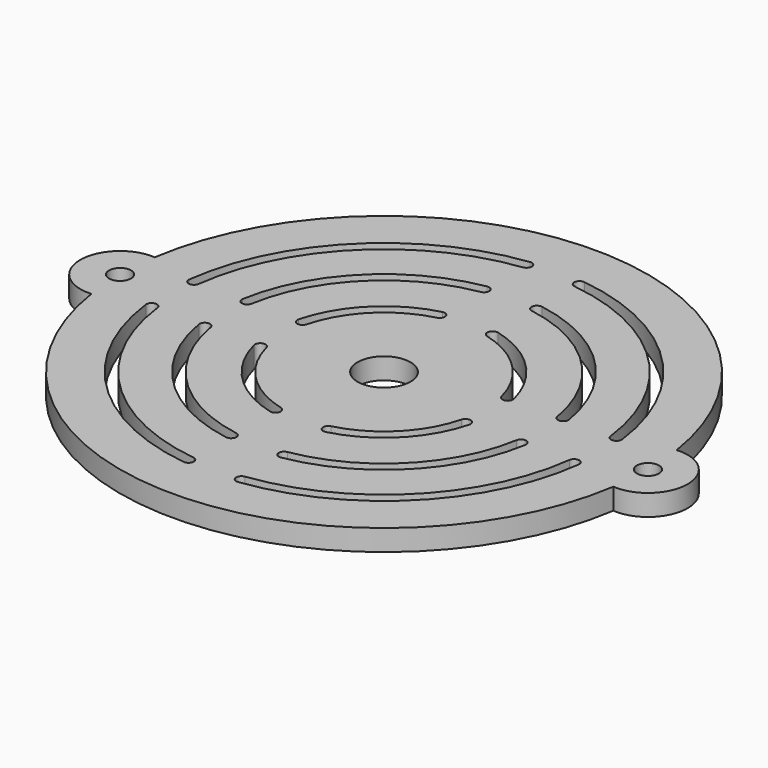
from build123d import *

# Parameters (mm, degrees)
F0_R     = 2.08
F0_R_2   = 5
F1_DEPTH = 4


with BuildPart() as f1:
    # F0 (on Top) → F1 (new body)
    with BuildSketch(Plane.XY):
        with BuildLine():
            ThreePointArc((49.265581, 7.478732), (0, 49.83), (-49.265581, 7.478732))
            ThreePointArc((-49.265581, 7.478732), (-57.33, 0), (-49.265581, -7.478732))
            ThreePointArc((-49.265581, -7.478732), (0, -49.83), (49.265581, -7.478732))
            ThreePointArc((49.265581, -7.478732), (57.33, 0), (49.265581, 7.478732))
        make_face()
        with BuildLine():
            ThreePointArc((-5.124423, -40.865491), (-29.122569, -29.122569), (-40.865491, -5.124423))
            ThreePointArc((-40.865491, -5.124423), (-39.997684, -4.007771), (-38.881032, -4.875577))
            ThreePointArc((-38.881032, -4.875577), (-27.708355, -27.708355), (-4.875577, -38.881032))
            ThreePointArc((-4.875577, -38.881032), (-4.007771, -39.997684), (-5.124423, -40.865491))
        make_face(mode=Mode.SUBTRACT)
        with BuildLine():
            ThreePointArc((-5.165289, -30.82016), (-22.097087, -22.097087), (-30.82016, -5.165289))
            ThreePointArc((-30.82016, -5.165289), (-29.999205, -4.013755), (-28.84767, -4.834711))
            ThreePointArc((-28.84767, -4.834711), (-20.682873, -20.682873), (-4.834711, -28.84767))
            ThreePointArc((-4.834711, -28.84767), (-4.013755, -29.999205), (-5.165289, -30.82016))
        make_face(mode=Mode.SUBTRACT)
        with BuildLine():
            ThreePointArc((-20.333163, -5.25), (-19.614917, -4.031754), (-18.396671, -4.75))
            ThreePointArc((-18.396671, -4.75), (-13.435029, -13.435029), (-4.75, -18.396671))
            ThreePointArc((-4.75, -18.396671), (-4.031754, -19.614917), (-5.25, -20.333163))
            ThreePointArc((-5.25, -20.333163), (-14.849242, -14.849242), (-20.333163, -5.25))
        make_face(mode=Mode.SUBTRACT)
        with BuildLine():
            ThreePointArc((40.865491, -5.124423), (29.122569, -29.122569), (5.124423, -40.865491))
            ThreePointArc((5.124423, -40.865491), (4.007771, -39.997684), (4.875577, -38.881032))
            ThreePointArc((4.875577, -38.881032), (27.708355, -27.708355), (38.881032, -4.875577))
            ThreePointArc((38.881032, -4.875577), (39.997684, -4.007771), (40.865491, -5.124423))
        make_face(mode=Mode.SUBTRACT)
        with BuildLine():
            ThreePointArc((30.82016, -5.165289), (22.097087, -22.097087), (5.165289, -30.82016))
            ThreePointArc((5.165289, -30.82016), (4.013755, -29.999205), (4.834711, -28.84767))
            ThreePointArc((4.834711, -28.84767), (20.682873, -20.682873), (28.84767, -4.834711))
            ThreePointArc((28.84767, -4.834711), (29.999205, -4.013755), (30.82016, -5.165289))
        make_face(mode=Mode.SUBTRACT)
        with BuildLine():
            ThreePointArc((5.25, -20.333163), (4.031754, -19.614917), (4.75, -18.396671))
            ThreePointArc((4.75, -18.396671), (13.435029, -13.435029), (18.396671, -4.75))
            ThreePointArc((18.396671, -4.75), (19.614917, -4.031754), (20.333163, -5.25))
            ThreePointArc((20.333163, -5.25), (14.849242, -14.849242), (5.25, -20.333163))
        make_face(mode=Mode.SUBTRACT)
        with Locations((-49.83, 0)):
            Circle(F0_R, mode=Mode.SUBTRACT)
        Circle(F0_R_2, mode=Mode.SUBTRACT)
        with BuildLine():
            ThreePointArc((-20.333163, 5.25), (-14.849242, 14.849242), (-5.25, 20.333163))
            ThreePointArc((-5.25, 20.333163), (-4.031754, 19.614917), (-4.75, 18.396671))
            ThreePointArc((-4.75, 18.396671), (-13.435029, 13.435029), (-18.396671, 4.75))
            ThreePointArc((-18.396671, 4.75), (-19.614917, 4.031754), (-20.333163, 5.25))
        make_face(mode=Mode.SUBTRACT)
        with BuildLine():
            ThreePointArc((-30.82016, 5.165289), (-22.097087, 22.097087), (-5.165289, 30.82016))
            ThreePointArc((-5.165289, 30.82016), (-4.013755, 29.999205), (-4.834711, 28.84767))
            ThreePointArc((-4.834711, 28.84767), (-20.682873, 20.682873), (-28.84767, 4.834711))
            ThreePointArc((-28.84767, 4.834711), (-29.999205, 4.013755), (-30.82016, 5.165289))
        make_face(mode=Mode.SUBTRACT)
        with BuildLine():
            ThreePointArc((-40.865491, 5.124423), (-29.122569, 29.122569), (-5.124423, 40.865491))
            ThreePointArc((-5.124423, 40.865491), (-4.007771, 39.997684), (-4.875577, 38.881032))
            ThreePointArc((-4.875577, 38.881032), (-27.708355, 27.708355), (-38.881032, 4.875577))
            ThreePointArc((-38.881032, 4.875577), (-39.997684, 4.007771), (-40.865491, 5.124423))
        make_face(mode=Mode.SUBTRACT)
        with BuildLine():
            ThreePointArc((20.333163, 5.25), (19.614917, 4.031754), (18.396671, 4.75))
            ThreePointArc((18.396671, 4.75), (13.435029, 13.435029), (4.75, 18.396671))
            ThreePointArc((4.75, 18.396671), (4.031754, 19.614917), (5.25, 20.333163))
            ThreePointArc((5.25, 20.333163), (14.849242, 14.849242), (20.333163, 5.25))
        make_face(mode=Mode.SUBTRACT)
        with BuildLine():
            ThreePointArc((5.165289, 30.82016), (22.097087, 22.097087), (30.82016, 5.165289))
            ThreePointArc((30.82016, 5.165289), (29.999205, 4.013755), (28.84767, 4.834711))
            ThreePointArc((28.84767, 4.834711), (20.682873, 20.682873), (4.834711, 28.84767))
            ThreePointArc((4.834711, 28.84767), (4.013755, 29.999205), (5.165289, 30.82016))
        make_face(mode=Mode.SUBTRACT)
        with BuildLine():
            ThreePointArc((5.124423, 40.865491), (29.122569, 29.122569), (40.865491, 5.124423))
            ThreePointArc((40.865491, 5.124423), (39.997684, 4.007771), (38.881032, 4.875577))
            ThreePointArc((38.881032, 4.875577), (27.708355, 27.708355), (4.875577, 38.881032))
            ThreePointArc((4.875577, 38.881032), (4.007771, 39.997684), (5.124423, 40.865491))
        make_face(mode=Mode.SUBTRACT)
        with Locations((49.83, 0)):
            Circle(F0_R, mode=Mode.SUBTRACT)
    extrude(amount=F1_DEPTH)


solid = f1.part
